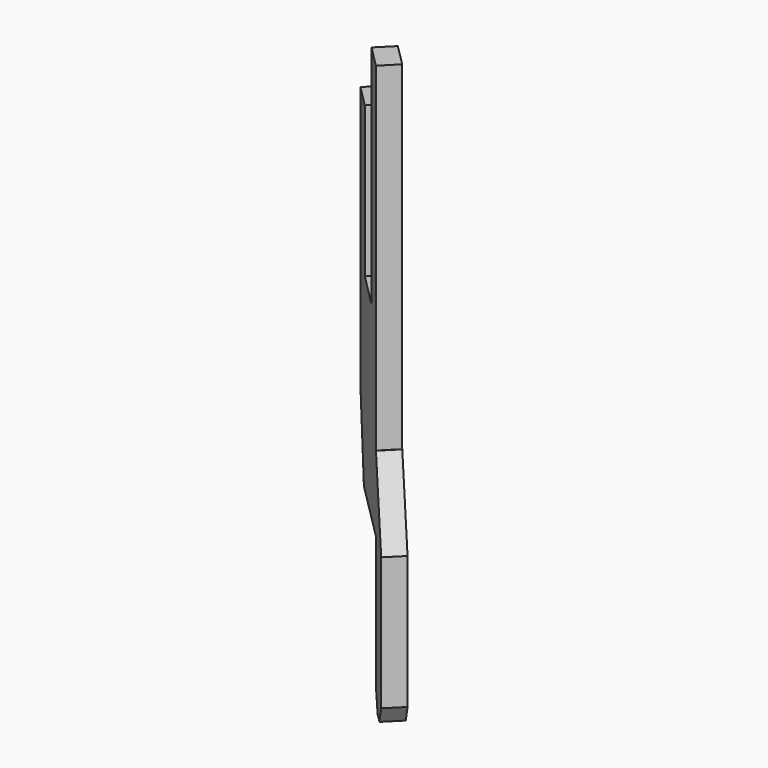
from build123d import *

# Parameters (mm, degrees)
BOX113_W                = 2.9
BOX113_H                = 0.55
BOX113_DEPTH            = 15
BOX114_W                = 1.25
BOX114_H                = 0.55
BOX114_DEPTH            = 6
BOX115_W                = 1.1
BOX115_H                = 0.6
BOX115_DEPTH            = 2
BOX117_W                = 1
BOX117_H                = 0.55
BOX117_DEPTH            = 6
BOX116_W                = 3
BOX116_H                = 0.55
BOX116_DEPTH            = 4
CHAMFER058_SIZE2        = 0.65
CHAMFER058_SIZE         = 2
CHAMFER059_ANGLE        = 33
CHAMFER059_SIZE         = 0.5
CHAMFER061_ANGLE        = 56
CHAMFER061_SIZE         = 0.33
CHAMFER060_ANGLE        = 26.565
CHAMFER060_SIZE         = 1.98
BODY037_PLACEMENT_ANGLE = 135


with BuildPart() as part:
    # Box113 → Box113 (join)
    with BuildSketch(Plane(origin=(-4.95, -0.275, 0), x_dir=(1, 0, 0), z_dir=(0, 0, 1))):
        with Locations((1.45, 0.275)):
            Rectangle(BOX113_W, BOX113_H)
    extrude(amount=BOX113_DEPTH)

    # Box114 → Box114 (cut)
    with BuildSketch(Plane(origin=(-4.125, -0.275, 9), x_dir=(1, 0, 0), z_dir=(0, 0, 1))):
        with Locations((0.625, 0.275)):
            Rectangle(BOX114_W, BOX114_H)
    extrude(amount=BOX114_DEPTH, mode=Mode.SUBTRACT)

    # Box115 → Box115 (cut)
    with BuildSketch(Plane(origin=(-3, -0.3, 13), x_dir=(1, 0, 0), z_dir=(0, 0, 1))):
        with Locations((0.55, 0.3)):
            Rectangle(BOX115_W, BOX115_H)
    extrude(amount=BOX115_DEPTH, mode=Mode.SUBTRACT)

    # Box117 → Box117 (join)
    with BuildSketch(Plane(origin=(-5.95, -0.275, 0), x_dir=(1, 0, 0), z_dir=(0, 0, 1))):
        with Locations((0.5, 0.275)):
            Rectangle(BOX117_W, BOX117_H)
    extrude(amount=BOX117_DEPTH)

    # Box116 → Box116 (cut)
    with BuildSketch(Plane(origin=(-4.95, 0.275, 4), x_dir=(1, 0, 0), z_dir=(0, 0, -1))):
        with Locations((1.5, 0.275)):
            Rectangle(BOX116_W, BOX116_H)
    extrude(amount=BOX116_DEPTH, mode=Mode.SUBTRACT)

    # Chamfer058
    chamfer058_edges = [part.edges().sort_by_distance(p)[0] for p in [
        (-2.05, 0, 4),
    ]]
    chamfer058_side = part.faces().sort_by_distance((-2.05, 0, 8.5))[0]
    chamfer(chamfer058_edges, length=CHAMFER058_SIZE, length2=CHAMFER058_SIZE2, reference=chamfer058_side)

    # Chamfer059
    chamfer059_edges = [part.edges().sort_by_distance(p)[0] for p in [
        (-4.95, 0, 0),
    ]]
    chamfer059_side = part.faces().sort_by_distance((-4.95, 0, 2))[0]
    chamfer(chamfer059_edges, length=CHAMFER059_SIZE, angle=CHAMFER059_ANGLE, reference=chamfer059_side)

    # Chamfer061
    chamfer061_edges = [part.edges().sort_by_distance(p)[0] for p in [
        (-5.95, 0, 0),
    ]]
    chamfer061_side = part.faces().sort_by_distance((-5.612352, 0, 0))[0]
    chamfer(chamfer061_edges, length=CHAMFER061_SIZE, angle=CHAMFER061_ANGLE, reference=chamfer061_side)

    # Chamfer060
    chamfer060_edges = [part.edges().sort_by_distance(p)[0] for p in [
        (-5.95, 0, 6),
    ]]
    chamfer060_side = part.faces().sort_by_distance((-5.95, 0, 3.244623))[0]
    chamfer(chamfer060_edges, length=CHAMFER060_SIZE, angle=CHAMFER060_ANGLE, reference=chamfer060_side)


with BuildPart() as part_1:
    # Body037 placement: moved
    add(part.part.moved(Location((0, 0, -4))).rotate(Axis((0, 0, -4), (0, 0, 1)), BODY037_PLACEMENT_ANGLE))


solid = part_1.part
